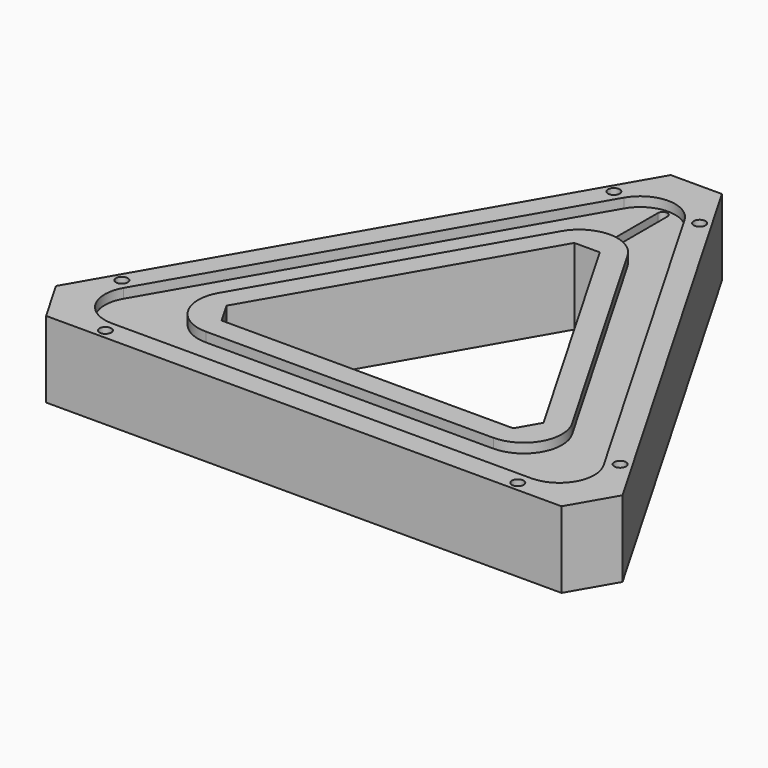
from build123d import *

# Parameters (mm, degrees)
PAD_DEPTH             = 24
POCKET_DEPTH          = 3
SKETCH002_W           = 70
SKETCH002_H           = 18.5
POCKET001_DEPTH       = 18
POLARPATTERN_COUNT    = 3
POCKET002_DEPTH       = 6
CHAMFER_SIZE          = 8
FILLET_R              = 13
FILLET001_R           = 11
CHAMFER001_SIZE       = 16.1
FILLET002_R           = 11
FILLET003_R           = 12
POCKET003_DEPTH       = 6
POCKET004_DEPTH       = 18
POCKET005_DEPTH       = 21.001
SKETCH012_R           = 1.85
POCKET011_DEPTH       = 498.049286
POLARPATTERN001_COUNT = 3


with BuildPart() as part:
    # Sketch → Pad (new body)
    with BuildSketch(Plane.XY):
        Polygon((0, 112.209492), (-97.17627, -56.104746), (97.17627, -56.104746), align=None)
        Polygon((0, 62.209492), (-53.875, -31.104746), (53.875, -31.104746), align=None, mode=Mode.SUBTRACT)
    extrude(amount=PAD_DEPTH)

    # Sketch001 (on Face8 of Pad) → Pocket (cut)
    with BuildSketch(Plane.XY.offset(24)):
        Polygon((0, 98.209492), (-85.051915, -49.104746), (85.051915, -49.104746), align=None)
        Polygon((0, 76.209492), (-65.999356, -38.104746), (65.999356, -38.104746), align=None, mode=Mode.SUBTRACT)
    extrude(amount=-POCKET_DEPTH, mode=Mode.SUBTRACT)

    # Sketch002 (on Face4 of Pocket) → Pocket001 (cut)
    with BuildSketch(Plane(origin=(0, 0, 0), x_dir=(1, 0, 0), z_dir=(0, 0, -1))):
        with Locations((0, 43.604746)):
            Rectangle(SKETCH002_W, SKETCH002_H)
    pocket001 = extrude(amount=-POCKET001_DEPTH, mode=Mode.SUBTRACT)

    # PolarPattern: Pocket001 ×3 about axis
    polarpattern_axis = Axis((0, 0, 0), (0, 0, -1))
    for i in range(1, POLARPATTERN_COUNT):
        add(pocket001.rotate(polarpattern_axis, i * 360 / POLARPATTERN_COUNT), mode=Mode.SUBTRACT)

    # Sketch003 (on Face4 of PolarPattern) → Pocket002 (cut)
    with BuildSketch(Plane(origin=(0, 0, 0), x_dir=(1, 0, 0), z_dir=(0, 0, -1))):
        Polygon((0, -100.209492), (86.783965, 50.104746), (-86.783965, 50.104746), align=None)
        Polygon((0, -74.209492), (64.267305, 37.104746), (-64.267305, 37.104746), align=None, mode=Mode.SUBTRACT)
    extrude(amount=-POCKET002_DEPTH, mode=Mode.SUBTRACT)

    # Chamfer
    chamfer_edges = [part.edges().sort_by_distance(p)[0] for p in [
        (-53.875, -31.104746, 12),
        (53.875, -31.104746, 12),
        (0, 62.209492, 12),
    ]]
    chamfer(chamfer_edges, length=CHAMFER_SIZE)

    # Fillet
    fillet_edges = [part.edges().sort_by_distance(p)[0] for p in [
        (0, 100.209492, 3),
        (-86.783965, -50.104746, 3),
        (86.783965, -50.104746, 3),
    ]]
    fillet(fillet_edges, radius=FILLET_R)

    # Fillet001
    fillet001_edges = [part.edges().sort_by_distance(p)[0] for p in [
        (0, 74.209492, 3),
        (64.267305, -37.104746, 3),
        (-64.267305, -37.104746, 3),
    ]]
    fillet(fillet001_edges, radius=FILLET001_R)

    # Chamfer001
    chamfer001_edges = [part.edges().sort_by_distance(p)[0] for p in [
        (97.17627, -56.104746, 12),
        (0, 112.209492, 12),
        (-97.17627, -56.104746, 12),
    ]]
    chamfer(chamfer001_edges, length=CHAMFER001_SIZE)

    # Fillet002
    fillet002_edges = [part.edges().sort_by_distance(p)[0] for p in [
        (0, 98.209492, 22.5),
        (-85.051915, -49.104746, 22.5),
        (85.051915, -49.104746, 22.5),
    ]]
    fillet(fillet002_edges, radius=FILLET002_R)

    # Fillet003
    fillet003_edges = [part.edges().sort_by_distance(p)[0] for p in [
        (65.999356, -38.104746, 22.5),
        (0, 76.209492, 22.5),
        (-65.999356, -38.104746, 22.5),
    ]]
    fillet(fillet003_edges, radius=FILLET003_R)

    # Sketch004 (on Face60 of Fillet003) → Pocket003 (cut)
    with BuildSketch(Plane(origin=(0, 0, 6), x_dir=(1, 0, 0), z_dir=(0, 0, -1))):
        Polygon((-8.75, -71.266483), (8.75, -71.266483), (8.75, -94.766483), (4, -94.766483), (4, -98.266483), (-4, -98.266483), (-4, -94.766483), (-8.75, -94.766483), align=None)
    extrude(amount=-POCKET003_DEPTH, mode=Mode.SUBTRACT)

    # Sketch005 (on Face29 of Pocket003) → Pocket004 (cut)
    with BuildSketch(Plane(origin=(0, 0, 0), x_dir=(1, 0, 0), z_dir=(0, 0, -1))):
        Polygon((46.171599, 38.954746), (68.688259, 51.954746), (79.338259, 33.508405), (56.821599, 20.508405), align=None)
    extrude(amount=-POCKET004_DEPTH, mode=Mode.SUBTRACT)

    # Sketch006 (on Face1 of Pocket004) → Pocket005 (cut, through all)
    with BuildSketch(Plane.XY.offset(21)):
        with BuildLine():
            ThreePointArc((1.5, 85.040452), (0, 86.540452), (-1.5, 85.040452))
            Line((-1.5, 85.040452), (-1.5, 66.040452))
            ThreePointArc((-1.5, 66.040452), (0, 64.540452), (1.5, 66.040452))
            Line((1.5, 85.040452), (1.5, 66.040452))
        make_face()
    extrude(amount=-POCKET005_DEPTH, mode=Mode.SUBTRACT)

    # Sketch012 → Pocket011 (cut, through all)
    with BuildSketch(Plane(origin=(0, 0, 0), x_dir=(1, 0, 0), z_dir=(0, 0, -1))):
        with Locations((-13.5, -82.703211)):
            Circle(SKETCH012_R)
        with Locations((13.5, -82.703211)):
            Circle(SKETCH012_R)
    pocket011 = extrude(amount=-POCKET011_DEPTH, mode=Mode.SUBTRACT)

    # PolarPattern001: Pocket011 ×3 about axis
    polarpattern001_axis = Axis((0, 0, 0), (0, 0, -1))
    for i in range(1, POLARPATTERN001_COUNT):
        add(pocket011.rotate(polarpattern001_axis, i * 360 / POLARPATTERN001_COUNT), mode=Mode.SUBTRACT)


solid = part.part
